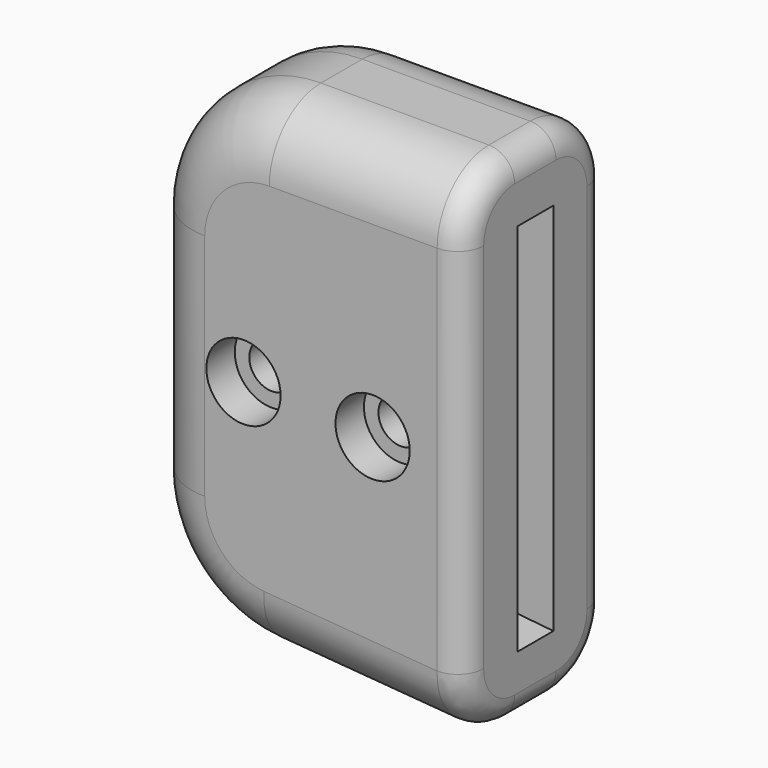
from build123d import *

# Parameters (mm, degrees)
F1_DEPTH  = 7
F3_DEPTH  = 1.75
F4_R      = 1.75
F5_DEPTH  = 5.25
F7_R      = 10
F8_R      = 5
F9_R      = 2
F10_R     = 2.875
F10_R_2   = 1.75
F11_DEPTH = 2.75
F12_R     = 1.75
F13_DEPTH = 2.75


with BuildPart() as f1:
    # F0 (on Front) → F1 (new body)
    with BuildSketch(Plane.XZ):
        Polygon((25, 0), (0, 0), (0, -37), (25, -39), align=None)
    extrude(amount=F1_DEPTH)

    # F2 (on face) → F3 (cut)
    with BuildSketch(Plane.XZ.offset(7)):
        Polygon((25, -34), (25, -5), (5, -5), (5, -32), align=None)
    extrude(amount=-F3_DEPTH, mode=Mode.SUBTRACT)

    # F4 (on face) → F5 (cut)
    with BuildSketch(Plane.XZ.offset(5.25)):
        with Locations((8, -19)):
            Circle(F4_R)
        with Locations((18, -19.5)):
            Circle(F4_R)
    extrude(amount=-F5_DEPTH, mode=Mode.SUBTRACT)

    # F6: F1 across face


with BuildPart() as f1_1:
    add(f1.part)
    add(f1.part.mirror(Plane(origin=(9.0064102564, -7, -19.0021367521), x_dir=(1, 0, 0), z_dir=(0, -1, 0))))

    # F7
    f7_edges = [f1_1.edges().sort_by_distance(p)[0] for p in [
        (0, -7, 0),
        (0, -7, -37),
    ]]
    fillet(f7_edges, radius=F7_R)

    # F8
    f8_edges = [f1_1.edges().sort_by_distance(p)[0] for p in [
        (17.5, -14, 0),
        (17.5, 0, 0),
    ]]
    fillet(f8_edges, radius=F8_R)

    # F9
    f9_edges = [f1_1.edges().sort_by_distance(p)[0] for p in [
        (25, -14, -19.492013),
    ]]
    fillet(f9_edges, radius=F9_R)

    # F10 (on face) → F11 (cut)
    with BuildSketch(Plane.XZ.offset(14)):
        with Locations((8, -19)):
            Circle(F10_R)
        with Locations((8, -19)):
            Circle(F10_R_2, mode=Mode.SUBTRACT)
        with Locations((18, -19.5)):
            Circle(F10_R)
        with Locations((18, -19.5)):
            Circle(F10_R_2, mode=Mode.SUBTRACT)
    extrude(amount=-F11_DEPTH, mode=Mode.SUBTRACT)

    # F12 (on face) → F13 (cut)
    with BuildSketch(Plane(origin=(0, 0, 0), x_dir=(-1, 0, 0), z_dir=(0, 1, 0))):
        Polygon((-16.4122867597, -16.75), (-19.5877132403, -16.75), (-21.1754264805, -19.5), (-19.5877132403, -22.25), (-16.4122867597, -22.25), (-14.8245735195, -19.5), align=None)
        with Locations((-18, -19.5)):
            Circle(F12_R, mode=Mode.SUBTRACT)
        Polygon((-6.4122867597, -16.25), (-9.5877132403, -16.25), (-11.1754264805, -19), (-9.5877132403, -21.75), (-6.4122867597, -21.75), (-5, -19.3038475773), (-5, -18.6961524227), align=None)
        with Locations((-8, -19)):
            Circle(F12_R, mode=Mode.SUBTRACT)
    extrude(amount=-F13_DEPTH, mode=Mode.SUBTRACT)


solid = f1_1.part
